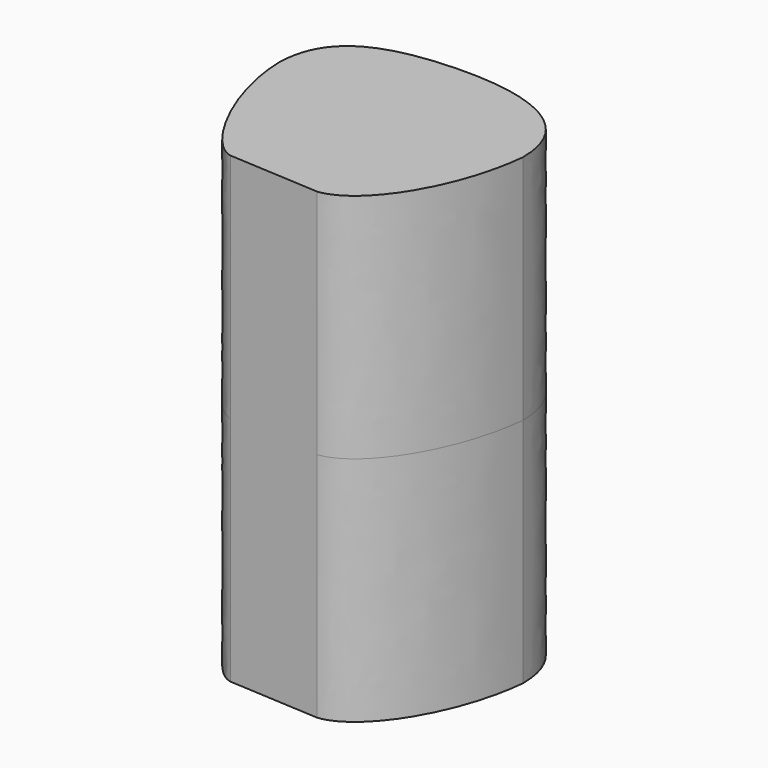
from build123d import *

# Parameters (mm, degrees)
F1_DEPTH = 40


with BuildPart() as f1:
    # F0 (on Top) → F1 (new body, symmetric)
    with BuildSketch(Plane.XY):
        with BuildLine():
            Line((-36.6244126005, 0.5894053388), (-20.9567960092, -0.328843824))
            add(Edge.make_bspline(
                [(-20.9567960092, -0.328843824), (-14.2012694783, 0.4173248809), (-6.8369193855, 12.2620229022), (-5.5588211715, 24.8266343568)],
                knots=[0, 0, 0, 0, 29.4939945007, 29.4939945007, 29.4939945007, 29.4939945007], degree=3))
            add(Edge.make_bspline(
                [(-5.5588211715, 24.8266343568), (-5.5750581018, 37.9650398802), (-31.8954744409, 42.0596854331), (-48.3702925247, 35.8493162955), (-48.5588211715, 25.9868701107)],
                knots=[0, 0, 0, 0, 0.5344640568, 1, 1, 1, 1], degree=3))
            add(Edge.make_bspline(
                [(-48.5588211715, 25.9868701107), (-48.3494981041, 14.8495689168), (-40.8204943883, 1.2403906728), (-36.6244126005, 0.5894053388)],
                knots=[0, 0, 0, 0, 28.0617412999, 28.0617412999, 28.0617412999, 28.0617412999], degree=3))
        make_face()
    extrude(amount=F1_DEPTH, both=True)


solid = f1.part
